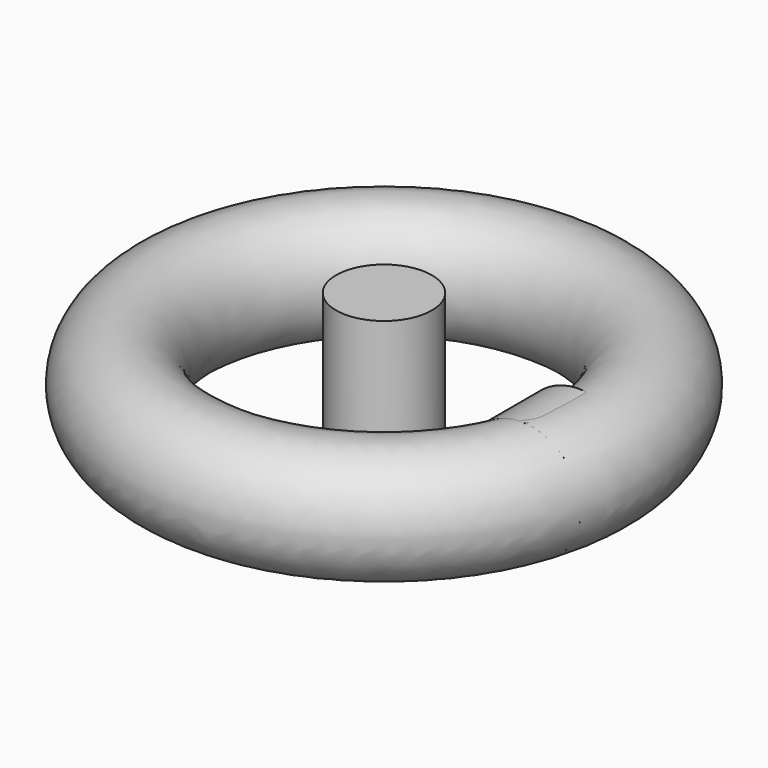
from build123d import *

# Parameters (mm, degrees)
F0_W      = 16.933458
F0_H      = 67.373564
F2_DEPTH  = 25.4
F2_FACE_R = 20.986492


with BuildPart() as f1:
    # F0 (on Front) → F1 (revolve)
    with BuildSketch(Plane.XZ):
        with Locations((-23.959047, 12.069595)):
            Rectangle(F0_W, F0_H)
    revolve(axis=Axis((-32.425776, 0, 12.069595), (0, 0, -1)))


with BuildPart() as f2:
    # F0 (on Front) → F2 (new body)
    with BuildSketch(Plane.XZ):
        with BuildLine():
            ThreePointArc((36.569074, -3.692741), (51.408765, 2.45406), (57.555566, 17.293751))
            ThreePointArc((57.555566, 17.293751), (21.729383, 32.133442), (36.569074, -3.692741))
        make_face()
    extrude(amount=F2_DEPTH)


with BuildPart() as f3:
    # F2_face (on face) → F3 (revolve)
    with BuildSketch(Plane(origin=(36.569074, -25.4, 17.293751), x_dir=(1, 0, 0), z_dir=(0, -1, 0))):
        Circle(F2_FACE_R)
    revolve(axis=Axis((-32.425776, 0, -21.617187), (0, 0, 1)))


solid = Compound([f1.part, f2.part, f3.part])
